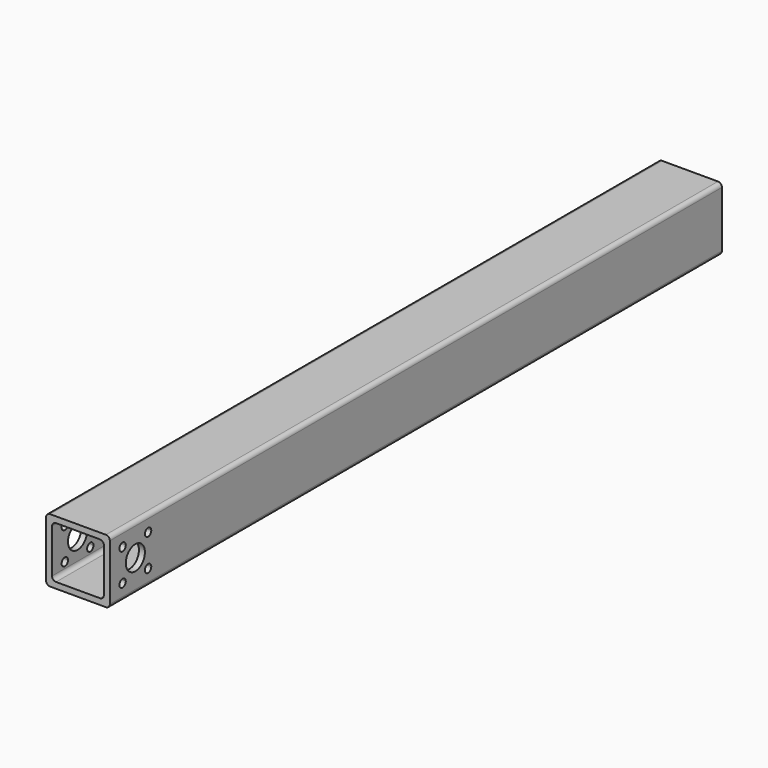
from build123d import *

# Parameters (mm, degrees)
F1_DEPTH = 609.6
F2_R     = 9.525
F3_DEPTH = 50.801


with BuildPart() as f1:
    # F0 (on Front) → F1 (new body)
    with BuildSketch(Plane.XZ):
        with BuildLine():
            ThreePointArc((25.4, 22.225), (24.470064, 24.470064), (22.225, 25.4))
            Line((22.225, 25.4), (-22.225, 25.4))
            ThreePointArc((-22.225, 25.4), (-24.470064, 24.470064), (-25.4, 22.225))
            Line((-25.4, 22.225), (-25.4, -22.225))
            ThreePointArc((-25.4, -22.225), (-24.470064, -24.470064), (-22.225, -25.4))
            Line((-22.225, -25.4), (22.225, -25.4))
            ThreePointArc((22.225, -25.4), (24.470064, -24.470064), (25.4, -22.225))
            Line((25.4, -22.225), (25.4, 22.225))
        make_face()
        with BuildLine():
            Line((-17.4625, 20.6375), (17.4625, 20.6375))
            ThreePointArc((17.4625, 20.6375), (19.707564, 19.707564), (20.6375, 17.4625))
            Line((20.6375, 17.4625), (20.6375, -17.4625))
            ThreePointArc((20.6375, -17.4625), (19.707564, -19.707564), (17.4625, -20.6375))
            Line((17.4625, -20.6375), (-17.4625, -20.6375))
            ThreePointArc((-17.4625, -20.6375), (-19.707564, -19.707564), (-20.6375, -17.4625))
            Line((-20.6375, -17.4625), (-20.6375, 17.4625))
            ThreePointArc((-20.6375, 17.4625), (-19.707564, 19.707564), (-17.4625, 20.6375))
        make_face(mode=Mode.SUBTRACT)
    extrude(amount=F1_DEPTH)

    # F2 (on face) → F3 (cut, through all)
    with BuildSketch(Plane.YZ.offset(25.4)):
        with Locations((-584.2, 0)):
            Circle(F2_R)
        with BuildLine():
            Line((-571.5, 9.525), (-571.5, 12.7))
            Line((-571.5, 12.7), (-574.675, 12.7))
            ThreePointArc((-574.675, 12.7), (-573.745064, 10.454936), (-571.5, 9.525))
        make_face()
        with BuildLine():
            Line((-574.675, 12.7), (-571.5, 12.7))
            Line((-571.5, 12.7), (-571.5, 9.525))
            ThreePointArc((-571.5, 9.525), (-569.254936, 10.454936), (-568.325, 12.7))
            ThreePointArc((-568.325, 12.7), (-571.5, 15.875), (-574.675, 12.7))
        make_face()
        with BuildLine():
            Line((-571.5, -9.525), (-571.5, -12.7))
            Line((-571.5, -12.7), (-574.675, -12.7))
            ThreePointArc((-574.675, -12.7), (-571.5, -15.875), (-568.325, -12.7))
            ThreePointArc((-568.325, -12.7), (-569.254936, -10.454936), (-571.5, -9.525))
        make_face()
        with BuildLine():
            Line((-574.675, -12.7), (-571.5, -12.7))
            Line((-571.5, -12.7), (-571.5, -9.525))
            ThreePointArc((-571.5, -9.525), (-573.745064, -10.454936), (-574.675, -12.7))
        make_face()
        with BuildLine():
            Line((-593.725, 12.7), (-596.9, 12.7))
            Line((-596.9, 12.7), (-596.9, 9.525))
            ThreePointArc((-596.9, 9.525), (-594.654936, 10.454936), (-593.725, 12.7))
        make_face()
        with BuildLine():
            Line((-596.9, 9.525), (-596.9, 12.7))
            Line((-596.9, 12.7), (-593.725, 12.7))
            ThreePointArc((-593.725, 12.7), (-599.145064, 14.945064), (-596.9, 9.525))
        make_face()
        with BuildLine():
            Line((-596.9, -12.7), (-593.725, -12.7))
            ThreePointArc((-593.725, -12.7), (-594.654936, -10.454936), (-596.9, -9.525))
            Line((-596.9, -9.525), (-596.9, -12.7))
        make_face()
        with BuildLine():
            ThreePointArc((-596.9, -9.525), (-599.145064, -14.945064), (-593.725, -12.7))
            Line((-593.725, -12.7), (-596.9, -12.7))
            Line((-596.9, -12.7), (-596.9, -9.525))
        make_face()
    extrude(amount=-F3_DEPTH, mode=Mode.SUBTRACT)


solid = f1.part
